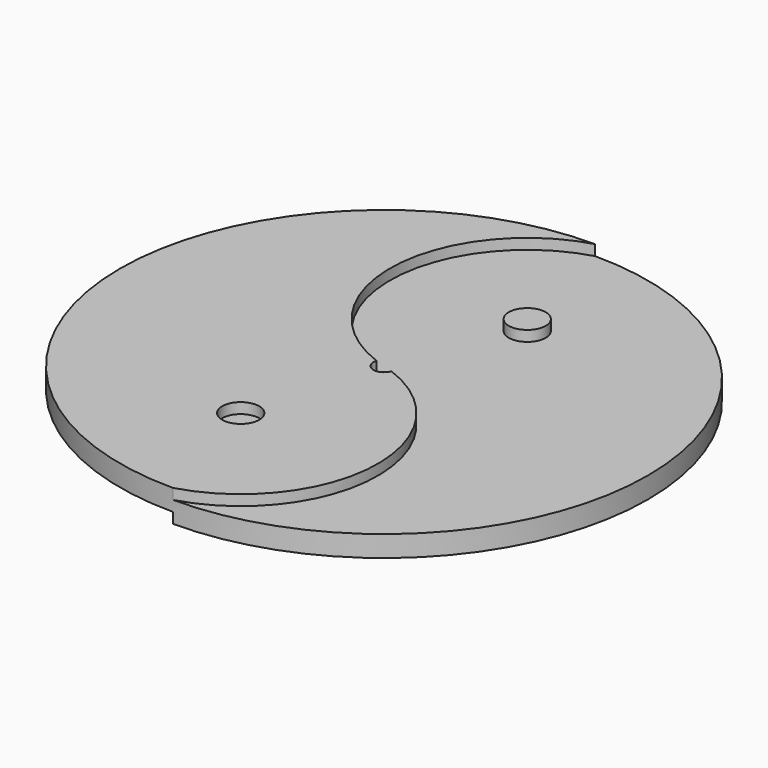
from build123d import *

# Parameters (mm, degrees)
F0_R     = 25
F1_DEPTH = 3
F2_R     = 1.75
F3_DEPTH = 1
F4_R     = 1.75
F5_DEPTH = 1
F7_DEPTH = 25


with BuildPart() as f1:
    # F0 (on Top) → F1 (new body)
    with BuildSketch(Plane.XY):
        Circle(F0_R)
    extrude(amount=F1_DEPTH)

    # F2 (on face) → F3 (cut)
    with BuildSketch(Plane.XY.offset(3)):
        with BuildLine():
            ThreePointArc((0, -25), (17.67767, -17.67767), (25, 0))
            ThreePointArc((25, 0), (17.67767, 17.67767), (0, 25))
            ThreePointArc((0, 25), (-9.429286, 12.5), (0, 0))
            ThreePointArc((0, 0), (9.429286, -12.5), (0, -25))
        make_face()
        with Locations((3.570714, 12.5)):
            Circle(F2_R, mode=Mode.SUBTRACT)
        with Locations((-3.570714, -12.5)):
            Circle(F2_R)
    extrude(amount=-F3_DEPTH, mode=Mode.SUBTRACT)

    # F4 (on face) → F5 (cut)
    with BuildSketch(Plane(origin=(0, 0, 0), x_dir=(1, 0, 0), z_dir=(0, 0, -1))):
        with BuildLine():
            ThreePointArc((0, 0), (9.429286, 12.5), (0, 25))
            ThreePointArc((0, 25), (-25, 0), (0, -25))
            ThreePointArc((0, -25), (-9.429286, -12.5), (0, 0))
        make_face()
        with Locations((-3.570714, 12.5)):
            Circle(F4_R, mode=Mode.SUBTRACT)
        with Locations((3.570714, -12.5)):
            Circle(F4_R)
    extrude(amount=-F5_DEPTH, mode=Mode.SUBTRACT)

    # F6 (on face) → F7 (cut)
    with BuildSketch(Plane.XY.offset(3)):
        with BuildLine():
            ThreePointArc((0, 0), (-0.478127, 0.146584), (-0.950263, 0.311449))
            ThreePointArc((-0.950263, 0.311449), (-0.311449, -0.950263), (0.950263, -0.311449))
            ThreePointArc((0.950263, -0.311449), (0.478127, -0.146584), (0, 0))
        make_face()
        with BuildLine():
            ThreePointArc((0.950263, -0.311449), (0.987487, -0.157698), (1, 0))
            ThreePointArc((1, 0), (0.157698, 0.987487), (-0.950263, 0.311449))
            ThreePointArc((-0.950263, 0.311449), (-0.478127, 0.146584), (0, 0))
            ThreePointArc((0, 0), (0.478127, -0.146584), (0.950263, -0.311449))
        make_face()
    extrude(amount=-F7_DEPTH, mode=Mode.SUBTRACT)


solid = f1.part
